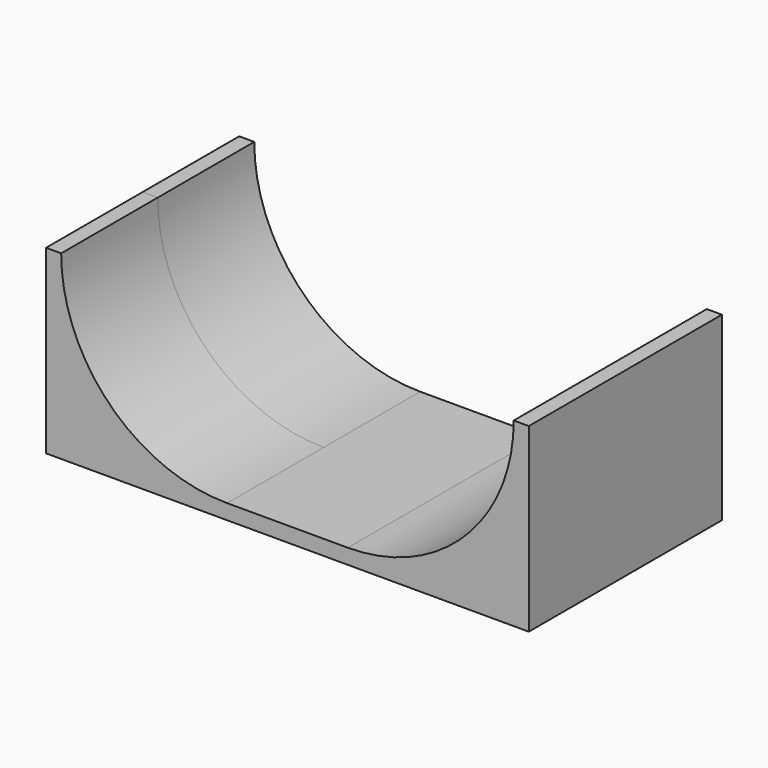
from build123d import *

# Parameters (mm, degrees)
F0_W     = 152.4
F0_H     = 101.6
F1_DEPTH = 152.4
F3_D     = 279.4
F0_W_2   = 50.8
F4_DEPTH = 12.7


with BuildPart() as f1:
    # F0 (on Top) → F1 (new body)
    with BuildSketch(Plane.XY):
        with Locations((-127, 50.8)):
            Rectangle(F0_W, F0_H)
    extrude(amount=F1_DEPTH)

    # F3 (through all)
    with Locations(Plane.XZ):
        with Locations((-50.8, 152.4)):
            Hole(F3_D / 2)

    # F0 (on Top) → F4 (join)
    with BuildSketch(Plane.XY):
        with Locations((-25.4, 50.8)):
            Rectangle(F0_W_2, F0_H)
    extrude(amount=F4_DEPTH)

    # F5: F1 across plane


with BuildPart() as f1_1:
    add(f1.part)
    add(f1.part.mirror(Plane.XZ))

    # F6: F1 across plane


with BuildPart() as f1_2:
    add(f1_1.part)
    add(f1_1.part.mirror(Plane.YZ))


solid = f1_2.part
